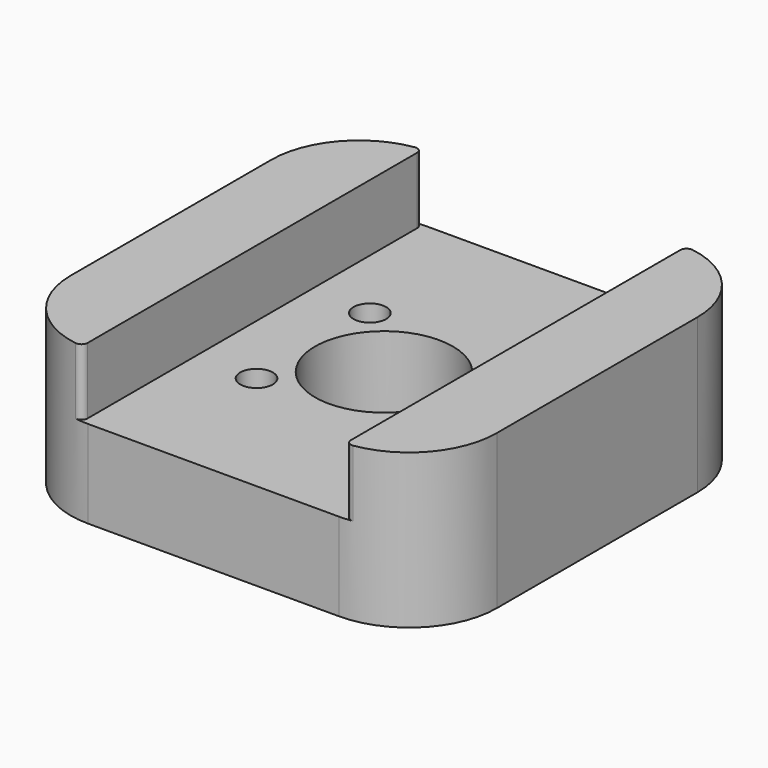
from build123d import *

# Parameters (mm, degrees)
F0_W     = 34
F0_H     = 34
F1_DEPTH = 12.3
F2_R     = 5.5
F3_DEPTH = 12.301
F4_R     = 1.3
F5_DEPTH = 12.301
F6_W     = 21
F6_H     = 5.3
F7_DEPTH = 34.001
F8_R     = 7
F9_R     = 0.5


with BuildPart() as f1:
    # F0 (on Top) → F1 (new body)
    with BuildSketch(Plane.XY):
        Rectangle(F0_W, F0_H)
    extrude(amount=F1_DEPTH)

    # F2 (on face) → F3 (cut, through all)
    with BuildSketch(Plane.XY.offset(12.3)):
        Circle(F2_R)
    extrude(amount=-F3_DEPTH, mode=Mode.SUBTRACT)

    # F4 (on face) → F5 (cut, through all)
    with BuildSketch(Plane(origin=(0, 0, 0), x_dir=(1, 0, 0), z_dir=(0, 0, -1))):
        with Locations((-5.65, 5.65)):
            Circle(F4_R)
        with Locations((-5.65, -5.65)):
            Circle(F4_R)
        with Locations((5.65, 5.65)):
            Circle(F4_R)
        with Locations((5.65, -5.65)):
            Circle(F4_R)
    extrude(amount=-F5_DEPTH, mode=Mode.SUBTRACT)

    # F6 (on face) → F7 (cut, through all)
    with BuildSketch(Plane.XZ.offset(17)):
        with Locations((0, 9.65)):
            Rectangle(F6_W, F6_H)
    extrude(amount=-F7_DEPTH, mode=Mode.SUBTRACT)

    # F8
    f8_edges = [f1.edges().sort_by_distance(p)[0] for p in [
        (-17, -17, 6.15),
        (17, -17, 6.15),
        (17, 17, 6.15),
        (-17, 17, 6.15),
    ]]
    fillet(f8_edges, radius=F8_R)

    # F9
    f9_edges = [f1.edges().sort_by_distance(p)[0] for p in [
        (-5.5, 0, 0),
        (-10.5, 16.98212, 9.65),
        (-10.5, -16.98212, 9.65),
        (10.5, -16.98212, 9.65),
        (10.5, 16.98212, 9.65),
    ]]
    fillet(f9_edges, radius=F9_R)


solid = f1.part
